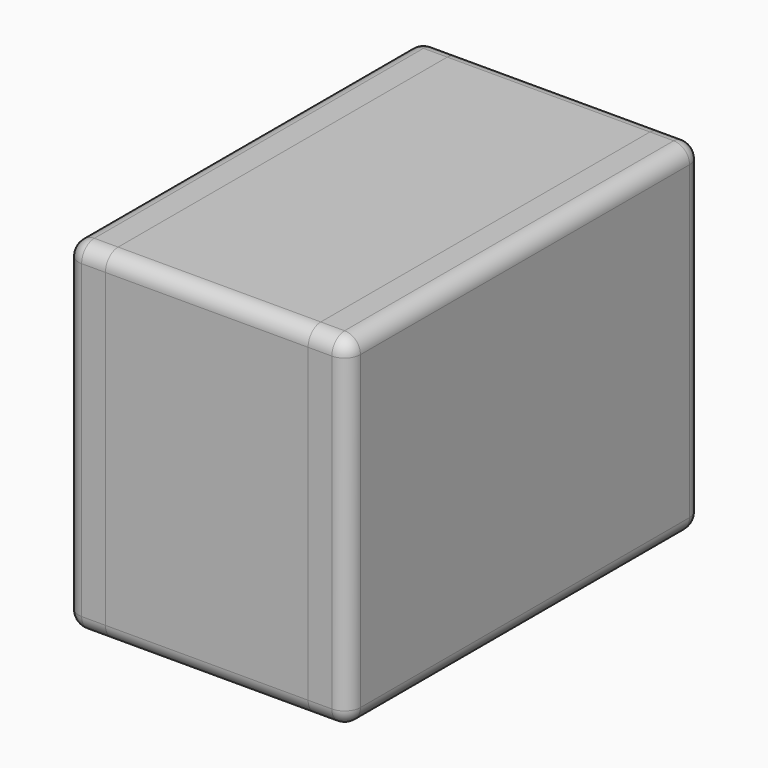
from build123d import *

# Parameters (mm, degrees)
F2_W     = 1.278
F2_H     = 2.794
F3_DEPTH = 1.0795
F2_W_2   = 0.25
F4_DEPTH = 1.0795
F5_DEPTH = 1.0795
F6_R     = 0.1
F6_2_R   = 0.1
F6_3_R   = 0.1


with BuildPart() as f3:
    # F2 (on Top) → F3 (new body, symmetric)
    with BuildSketch(Plane.XY):
        Rectangle(F2_W, F2_H)
    extrude(amount=F3_DEPTH, both=True)

    # F6#2
    f6_2_edges = [f3.edges().sort_by_distance(p)[0] for p in [
        (0, -1.397, 1.0795),
        (0, -1.397, -1.0795),
        (0, 1.397, 1.0795),
        (0, 1.397, -1.0795),
    ]]
    fillet(f6_2_edges, radius=F6_2_R)


with BuildPart() as f4:
    # F2 (on Top) → F4 (new body, symmetric)
    with BuildSketch(Plane.XY):
        with Locations((-0.764, 0)):
            Rectangle(F2_W_2, F2_H)
    extrude(amount=F4_DEPTH, both=True)

    # F6
    f6_edges = [f4.edges().sort_by_distance(p)[0] for p in [
        (-0.764, -1.397, 1.0795),
        (-0.764, -1.397, -1.0795),
        (-0.889, 1.397, 0),
        (-0.889, 0, -1.0795),
        (-0.889, -1.397, 0),
        (-0.889, 0, 1.0795),
        (-0.764, 1.397, -1.0795),
        (-0.764, 1.397, 1.0795),
    ]]
    fillet(f6_edges, radius=F6_R)


with BuildPart() as f5:
    # F2 (on Top) → F5 (new body, symmetric)
    with BuildSketch(Plane.XY):
        with Locations((0.764, 0)):
            Rectangle(F2_W_2, F2_H)
    extrude(amount=F5_DEPTH, both=True)

    # F6#3
    f6_3_edges = [f5.edges().sort_by_distance(p)[0] for p in [
        (0.764, -1.397, 1.0795),
        (0.889, 0, -1.0795),
        (0.889, 1.397, 0),
        (0.889, 0, 1.0795),
        (0.889, -1.397, 0),
        (0.764, -1.397, -1.0795),
        (0.764, 1.397, 1.0795),
        (0.764, 1.397, -1.0795),
    ]]
    fillet(f6_3_edges, radius=F6_3_R)


solid = Compound([f3.part, f4.part, f5.part])
